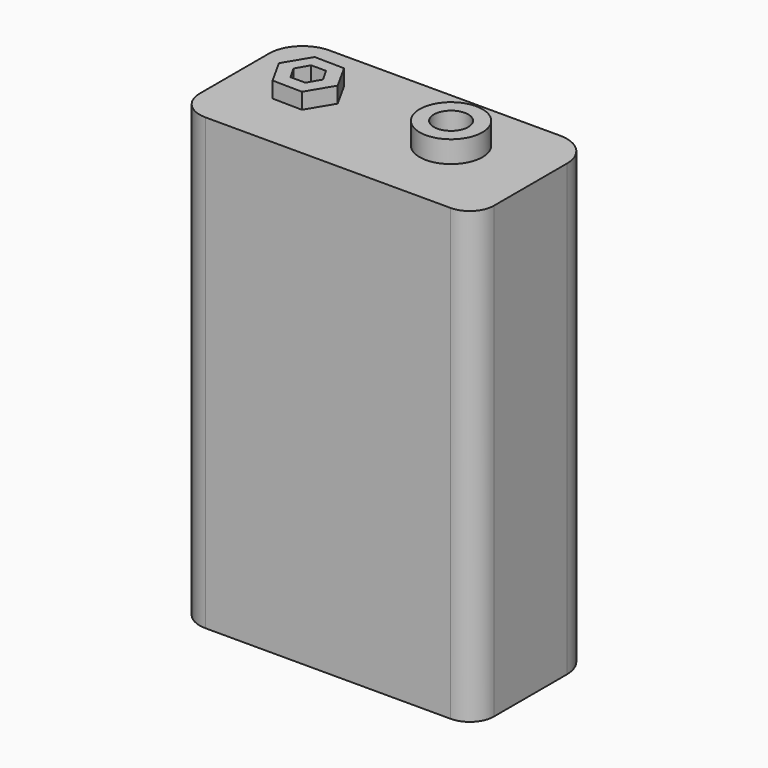
from build123d import *

# Parameters (mm, degrees)
F0_W      = 38.10881
F0_H      = 57.533204
F1_DEPTH  = 19.05
F2_R      = 3.066051
F3_R      = 3.679261
F4_R      = 4.292472
F5_R      = 4.292472
F7_DEPTH  = 2.032
F8_R      = 4.017034
F9_DEPTH  = 2.794
F11_DEPTH = 2.286
F12_R     = 2.195821
F13_DEPTH = 3.048


with BuildPart() as f1:
    # F0 (on Front) → F1 (new body)
    with BuildSketch(Plane.XZ):
        Rectangle(F0_W, F0_H)
    extrude(amount=F1_DEPTH)

    # F2
    f2_edges = [f1.edges().sort_by_distance(p)[0] for p in [
        (19.054405, -19.05, 0),
    ]]
    fillet(f2_edges, radius=F2_R)

    # F3
    f3_edges = [f1.edges().sort_by_distance(p)[0] for p in [
        (-19.054405, -19.05, 0),
    ]]
    fillet(f3_edges, radius=F3_R)

    # F4
    f4_edges = [f1.edges().sort_by_distance(p)[0] for p in [
        (19.054405, 0, 0),
    ]]
    fillet(f4_edges, radius=F4_R)

    # F5
    f5_edges = [f1.edges().sort_by_distance(p)[0] for p in [
        (-19.054405, 0, 0),
    ]]
    fillet(f5_edges, radius=F5_R)

    # F6 (on face) → F7 (join)
    with BuildSketch(Plane.XY.offset(28.766602)):
        Polygon((-12.688468, -11.684282), (-8.879722, -11.747133), (-6.920919, -8.480087), (-8.770862, -5.150191), (-12.579608, -5.08734), (-14.538411, -8.354386), align=None)
    extrude(amount=F7_DEPTH)

    # F8 (on face) → F9 (join)
    with BuildSketch(Plane.XY.offset(28.766602)):
        with Locations((7.584764, -8.480087)):
            Circle(F8_R)
    extrude(amount=F9_DEPTH)

    # F10 (on face) → F11 (cut)
    with BuildSketch(Plane.XY.offset(30.798602)):
        Polygon((-9.831909, -10.003621), (-8.879722, -8.354386), (-9.831909, -6.70515), (-11.736282, -6.70515), (-12.688468, -8.354386), (-11.736282, -10.003621), align=None)
    extrude(amount=-F11_DEPTH, mode=Mode.SUBTRACT)

    # F12 (on face) → F13 (cut)
    with BuildSketch(Plane.XY.offset(31.560602)):
        with Locations((7.584764, -8.480087)):
            Circle(F12_R)
    extrude(amount=-F13_DEPTH, mode=Mode.SUBTRACT)


solid = f1.part
